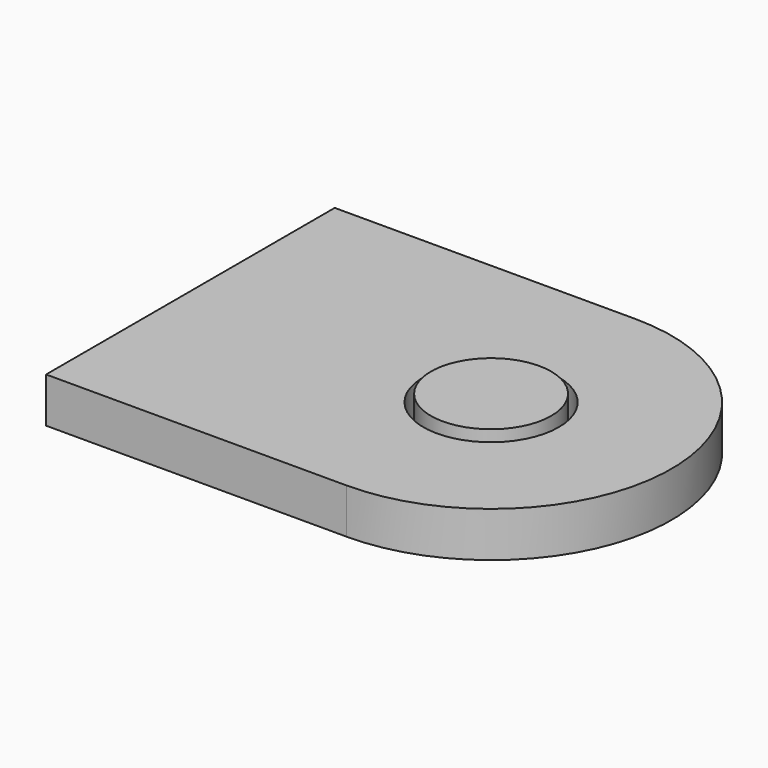
from build123d import *

# Parameters (mm, degrees)
F0_R     = 2.25
F1_DEPTH = 0.75
F0_R_2   = 2
F2_DEPTH = 1


with BuildPart() as f1:
    # F0 (on Top) → F1 (new body, symmetric)
    with BuildSketch(Plane.XY):
        with BuildLine():
            Line((-8, 6), (-8, -6))
            Line((-8, -6), (2, -6))
            ThreePointArc((2, -6), (8, 0), (2, 6))
            Line((2, 6), (-8, 6))
        make_face()
        with Locations((2, 0)):
            Circle(F0_R, mode=Mode.SUBTRACT)
    extrude(amount=F1_DEPTH, both=True)


with BuildPart() as f2:
    # F0 (on Top) → F2 (new body, symmetric)
    with BuildSketch(Plane.XY):
        with Locations((2, 0)):
            Circle(F0_R_2)
    extrude(amount=F2_DEPTH, both=True)


solid = Compound([f1.part, f2.part])
